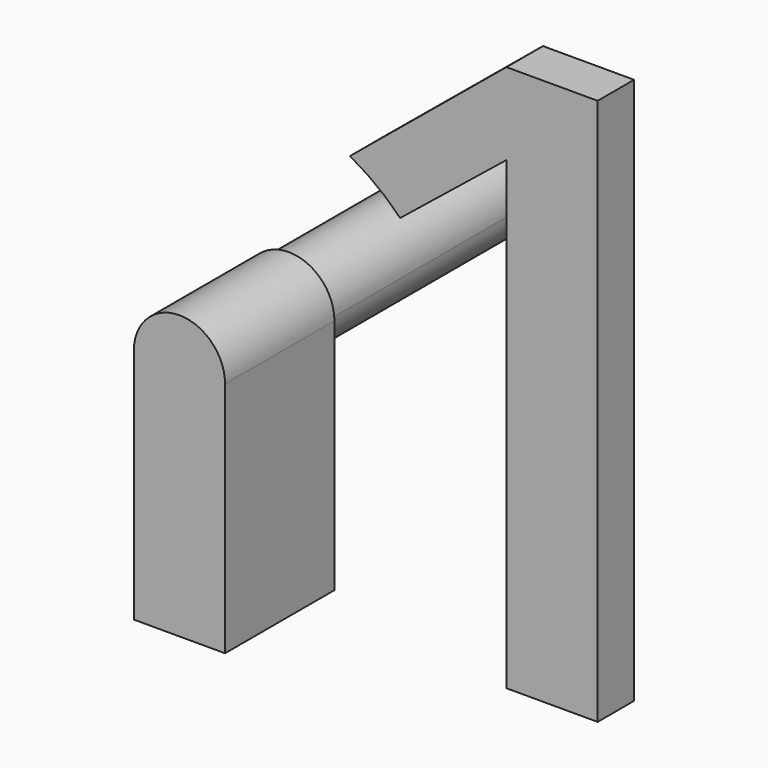
from build123d import *

# Parameters (mm, degrees)
F1_DEPTH      = 12.7
F1_FACE_R     = 11.43
F2_DEPTH      = 25.4
F3_DEPTH      = 38.1
F3_DEPTH_BACK = 76.2


with BuildPart() as f1:
    # F0 (on Front) → F1 (new body)
    with BuildSketch(Plane.XZ):
        with BuildLine():
            Line((-36.2136464912, -101.742199043), (-23.5136464912, -101.742199043))
            Line((-23.5136464912, -101.742199043), (-23.5136464912, -84.8128875398))
            ThreePointArc((-23.5136464912, -84.8128875398), (-29.8126284331, -86.0211076134), (-36.2136464912, -86.425999043))
            Line((-36.2136464912, -86.425999043), (-36.2136464912, -101.742199043))
        make_face()
        with BuildLine():
            Line((-48.9136464912, -101.742199043), (-36.2136464912, -101.742199043))
            Line((-36.2136464912, -101.742199043), (-36.2136464912, -86.425999043))
            ThreePointArc((-36.2136464912, -86.425999043), (-42.6146645493, -86.0211076134), (-48.9136464912, -84.8128875398))
            Line((-48.9136464912, -84.8128875398), (-48.9136464912, -101.742199043))
        make_face()
        with BuildLine():
            ThreePointArc((-36.2136464912, -86.425999043), (-29.8126284331, -86.0211076134), (-23.5136464912, -84.8128875398))
            Line((-23.5136464912, -84.8128875398), (-23.5136464912, -35.625999043))
            ThreePointArc((-23.5136464912, -35.625999043), (-27.2333903701, -44.606255164), (-36.2136464912, -48.325999043))
            Line((-36.2136464912, -48.325999043), (-36.2136464912, -86.425999043))
        make_face()
        with BuildLine():
            ThreePointArc((-48.9136464912, -84.8128875398), (-42.6146645493, -86.0211076134), (-36.2136464912, -86.425999043))
            Line((-36.2136464912, -86.425999043), (-36.2136464912, -48.325999043))
            ThreePointArc((-36.2136464912, -48.325999043), (-45.1939026123, -44.606255164), (-48.9136464912, -35.625999043))
            Line((-48.9136464912, -35.625999043), (-48.9136464912, -84.8128875398))
        make_face()
        with BuildLine():
            Line((-24.7836464912, -35.625999043), (-23.5136464912, -35.625999043))
            ThreePointArc((-23.5136464912, -35.625999043), (-36.2136464912, -22.925999043), (-48.9136464912, -35.625999043))
            Line((-48.9136464912, -35.625999043), (-47.6436464912, -35.625999043))
            ThreePointArc((-47.6436464912, -35.625999043), (-36.2136464912, -24.195999043), (-24.7836464912, -35.625999043))
        make_face()
        with BuildLine():
            ThreePointArc((-36.2136464912, -48.325999043), (-27.2333903701, -44.606255164), (-23.5136464912, -35.625999043))
            Line((-23.5136464912, -35.625999043), (-24.7836464912, -35.625999043))
            ThreePointArc((-24.7836464912, -35.625999043), (-28.1314159822, -43.7082295519), (-36.2136464912, -47.055999043))
            Line((-36.2136464912, -47.055999043), (-36.2136464912, -48.325999043))
        make_face()
        with BuildLine():
            ThreePointArc((-48.9136464912, -35.625999043), (-45.1939026123, -44.606255164), (-36.2136464912, -48.325999043))
            Line((-36.2136464912, -48.325999043), (-36.2136464912, -47.055999043))
            ThreePointArc((-36.2136464912, -47.055999043), (-44.2958770002, -43.7082295519), (-47.6436464912, -35.625999043))
            Line((-47.6436464912, -35.625999043), (-48.9136464912, -35.625999043))
        make_face()
    extrude(amount=F1_DEPTH)

    # F0 (on Front) + F1_face (on face) → F2 (join)
    with BuildSketch(Plane.XZ):
        with BuildLine():
            Line((-48.9136464912, -101.742199043), (-36.2136464912, -101.742199043))
            Line((-36.2136464912, -101.742199043), (-36.2136464912, -86.425999043))
            ThreePointArc((-36.2136464912, -86.425999043), (-42.6146645493, -86.0211076134), (-48.9136464912, -84.8128875398))
            Line((-48.9136464912, -84.8128875398), (-48.9136464912, -101.742199043))
        make_face()
        with BuildLine():
            Line((-36.2136464912, -101.742199043), (-23.5136464912, -101.742199043))
            Line((-23.5136464912, -101.742199043), (-23.5136464912, -84.8128875398))
            ThreePointArc((-23.5136464912, -84.8128875398), (-29.8126284331, -86.0211076134), (-36.2136464912, -86.425999043))
            Line((-36.2136464912, -86.425999043), (-36.2136464912, -101.742199043))
        make_face()
        with BuildLine():
            ThreePointArc((-36.2136464912, -86.425999043), (-29.8126284331, -86.0211076134), (-23.5136464912, -84.8128875398))
            Line((-23.5136464912, -84.8128875398), (-23.5136464912, -35.625999043))
            ThreePointArc((-23.5136464912, -35.625999043), (-27.2333903701, -44.606255164), (-36.2136464912, -48.325999043))
            Line((-36.2136464912, -48.325999043), (-36.2136464912, -86.425999043))
        make_face()
        with BuildLine():
            ThreePointArc((-48.9136464912, -84.8128875398), (-42.6146645493, -86.0211076134), (-36.2136464912, -86.425999043))
            Line((-36.2136464912, -86.425999043), (-36.2136464912, -48.325999043))
            ThreePointArc((-36.2136464912, -48.325999043), (-45.1939026123, -44.606255164), (-48.9136464912, -35.625999043))
            Line((-48.9136464912, -35.625999043), (-48.9136464912, -84.8128875398))
        make_face()
        with BuildLine():
            ThreePointArc((-48.9136464912, -35.625999043), (-45.1939026123, -44.606255164), (-36.2136464912, -48.325999043))
            Line((-36.2136464912, -48.325999043), (-36.2136464912, -47.055999043))
            ThreePointArc((-36.2136464912, -47.055999043), (-44.2958770002, -43.7082295519), (-47.6436464912, -35.625999043))
            Line((-47.6436464912, -35.625999043), (-48.9136464912, -35.625999043))
        make_face()
        with BuildLine():
            ThreePointArc((-36.2136464912, -48.325999043), (-27.2333903701, -44.606255164), (-23.5136464912, -35.625999043))
            Line((-23.5136464912, -35.625999043), (-24.7836464912, -35.625999043))
            ThreePointArc((-24.7836464912, -35.625999043), (-28.1314159822, -43.7082295519), (-36.2136464912, -47.055999043))
            Line((-36.2136464912, -47.055999043), (-36.2136464912, -48.325999043))
        make_face()
    with BuildSketch(Plane(origin=(-36.2136464912, -12.7, -71.1982060797), x_dir=(1, 0, 0), z_dir=(0, -1, 0))):
        with BuildLine():
            ThreePointArc((12.7, 35.5722070367), (0, 48.2722070367), (-12.7, 35.5722070367))
            Line((-12.7, 35.5722070367), (-12.7, -30.5439929633))
            Line((-12.7, -30.5439929633), (12.7, -30.5439929633))
            Line((12.7, -30.5439929633), (12.7, 35.5722070367))
        make_face()
        with Locations((0, 35.5722070367)):
            Circle(F1_FACE_R, mode=Mode.SUBTRACT)
    extrude(amount=F2_DEPTH)

    # F0 (on Front) → F3 (join, two sides)
    with BuildSketch(Plane.XZ) as f3_sk:
        with BuildLine():
            ThreePointArc((-36.2136464912, -47.055999043), (-28.1314159822, -43.7082295519), (-24.7836464912, -35.625999043))
            ThreePointArc((-24.7836464912, -35.625999043), (-36.2136464912, -24.195999043), (-47.6436464912, -35.625999043))
            ThreePointArc((-47.6436464912, -35.625999043), (-44.2958770002, -43.7082295519), (-36.2136464912, -47.055999043))
        make_face()
    extrude(amount=F3_DEPTH)
    extrude(f3_sk.sketch, amount=-F3_DEPTH_BACK)


with BuildPart() as f1b:
    # F0 (on Front) → F1, piece 2 (new body)
    with BuildSketch(Plane.XZ):
        with BuildLine():
            Line((34.6073068906, 50.657800957), (-9.0286382413, 14.6442488821))
            ThreePointArc((-9.0286382413, 14.6442488821), (-1.6185245989, 9.8635606522), (4.9678962719, 3.9997884653))
            Line((4.9678962719, 3.9997884653), (34.6073068906, 27.8632844451))
            Line((34.6073068906, 27.8632844451), (34.6073068906, 50.657800957))
        make_face()
        Polygon((60.0073068906, 50.657800957), (34.6073068906, 50.657800957), (34.6073068906, 27.8632844451), (34.6073068906, -101.742199043), (60.0073068906, -101.742199043), align=None)
    extrude(amount=F1_DEPTH)


solid = Compound([f1.part, f1b.part])
